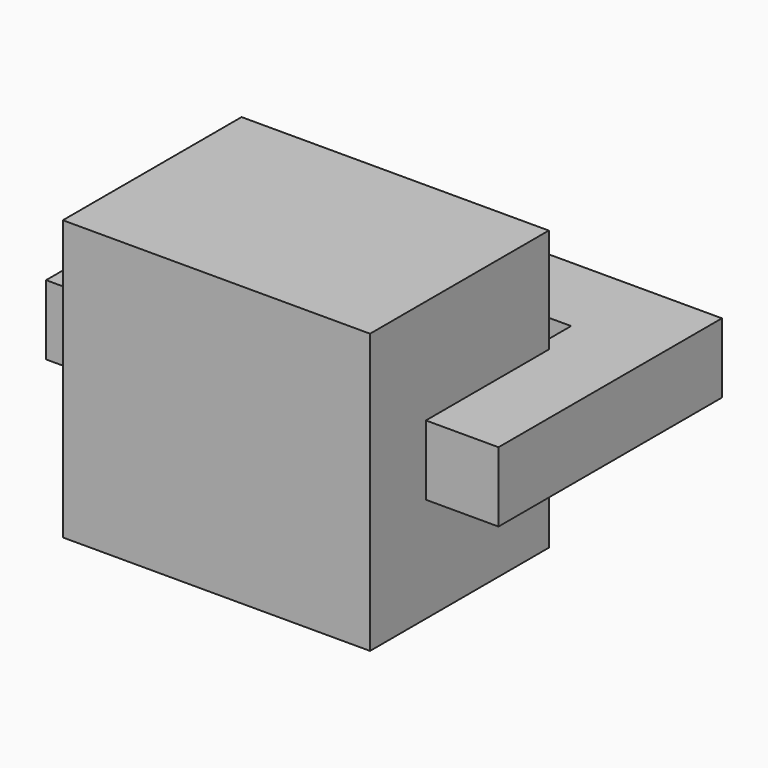
from build123d import *

# Parameters (mm, degrees)
F0_W     = 16.2
F0_H     = 10
F0_W_2   = 10.2
F0_H_2   = 4
F1_DEPTH = 1.25
F2_W     = 11
F2_H     = 8
F3_DEPTH = 5


with BuildPart() as f1:
    # F0 (on Top) → F1 (new body, symmetric)
    with BuildSketch(Plane.XY):
        with Locations((0, -7)):
            Rectangle(F0_W, F0_H)
        with Locations((0, -7)):
            Rectangle(F0_W_2, F0_H_2, mode=Mode.SUBTRACT)
    extrude(amount=F1_DEPTH, both=True)


with BuildPart() as f3:
    # F2 (on Top) → F3 (new body, symmetric)
    with BuildSketch(Plane.XY):
        with Locations((0, -10.5)):
            Rectangle(F2_W, F2_H)
    extrude(amount=F3_DEPTH, both=True)


solid = Compound([f1.part, f3.part])
